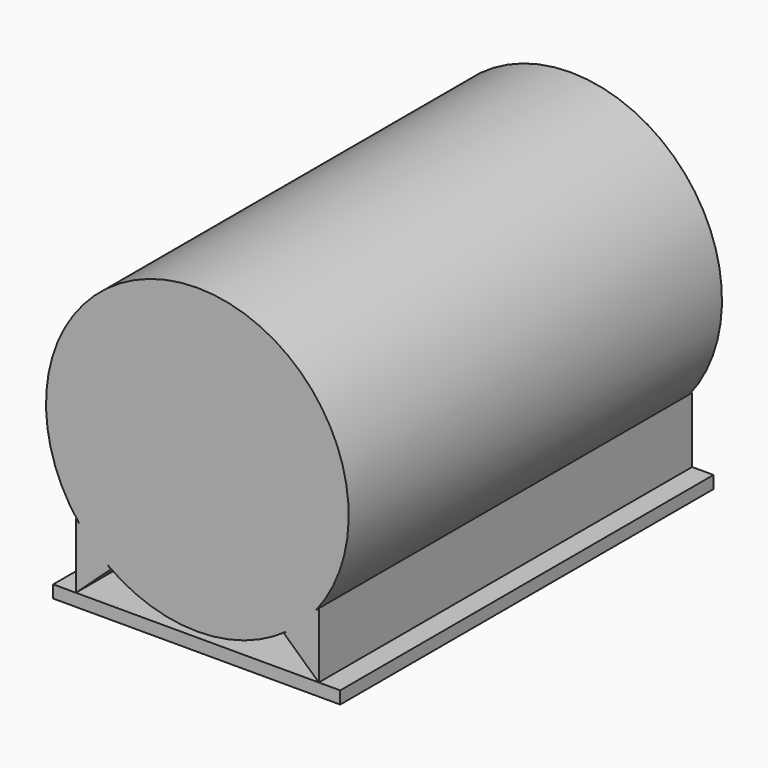
from build123d import *

# Parameters (mm, degrees)
F0_R     = 609.6
F1_DEPTH = 1879.6
F3_DEPTH = 1879.6


with BuildPart() as f1:
    # F0 (on Front) → F1 (new body)
    with BuildSketch(Plane.XZ):
        Circle(F0_R)
    extrude(amount=F1_DEPTH)

    # F2 (on Front) → F3 (join)
    with BuildSketch(Plane.XZ):
        Polygon((-348.987311, -502.488673), (-489.207476, -368.110985), (-489.207476, -631.023824), align=None)
        Polygon((348.987311, -502.488673), (489.207476, -631.023824), (489.207476, -368.110985), align=None)
        Polygon((489.207476, -631.023824), (-489.207476, -631.023824), (-580.687582, -631.023824), (-580.687582, -681.413651), (575.422287, -681.413651), (575.422287, -631.023824), align=None)
    extrude(amount=F3_DEPTH)


solid = f1.part
